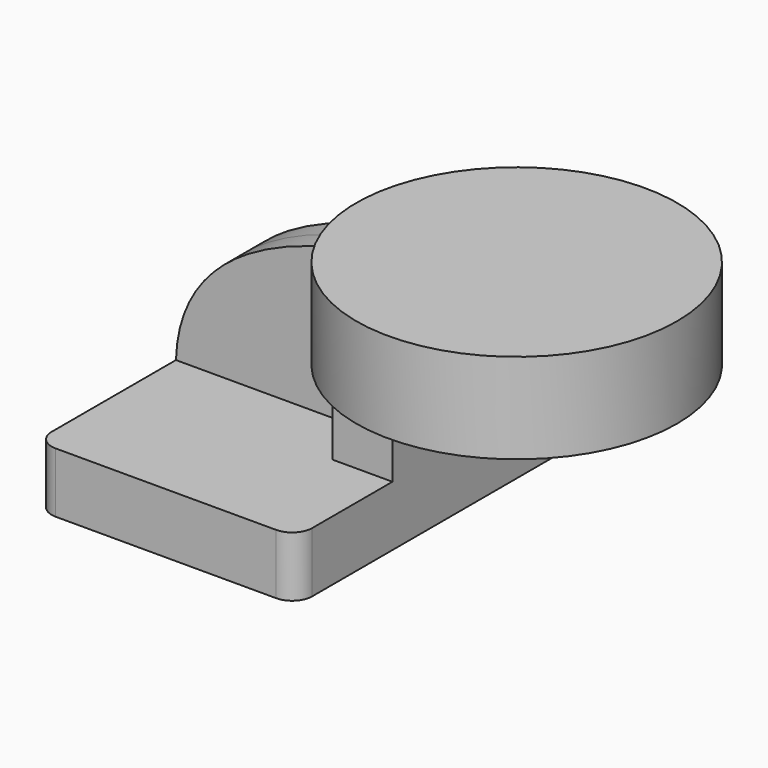
from build123d import *

# Parameters (mm, degrees)
F1_DEPTH = 63.5
F2_DEPTH = 25.4
F3_DEPTH = 7.9375
F5_R     = 6.35


with BuildPart() as f1:
    # F0 (on Front) → F1 (new body, symmetric)
    with BuildSketch(Plane.XZ):
        Polygon((22.225, 9.525), (-41.275, 9.525), (-41.275, -9.525), (41.275, -9.525), (41.275, 9.525), align=None)
    extrude(amount=F1_DEPTH, both=True)

    # F0 (on Front) → F2 (join, symmetric)
    with BuildSketch(Plane.XZ):
        with BuildLine():
            Line((22.225, 27.147116), (22.225, 9.525))
            Line((22.225, 9.525), (41.275, 9.525))
            Line((41.275, 9.525), (41.275, 27.147116))
            ThreePointArc((41.275, 27.147116), (45.187089, 37.582842), (54.995237, 42.8752))
            Line((54.995237, 42.8752), (60.325, 42.8752))
            Line((60.325, 42.8752), (60.325, 61.9252))
            Line((60.325, 61.9252), (53.949921, 61.9252))
            ThreePointArc((53.949921, 61.9252), (31.34769, 50.684245), (22.225, 27.147116))
        make_face()
    extrude(amount=F2_DEPTH, both=True)

    # F0 (on Front) → F3 (join, symmetric)
    with BuildSketch(Plane.XZ):
        with BuildLine():
            add(Edge.make_bspline(
                [(-41.275, 9.525), (-40.190469, 45.686379), (0, 61.9252), (53.949921, 61.9252)],
                knots=[0, 0, 0, 0, 108.690232, 108.690232, 108.690232, 108.690232], degree=3))
            Line((-41.275, 9.525), (22.225, 9.525))
            Line((22.225, 9.525), (22.225, 27.147116))
            ThreePointArc((22.225, 27.147116), (31.34769, 50.684245), (53.949921, 61.9252))
        make_face()
    extrude(amount=F3_DEPTH, both=True)

    # F0 (on Front) → F4 (revolve)
    with BuildSketch(Plane.XZ):
        Polygon((60.325, 66.675), (60.325, 61.9252), (78.97443, 61.9252), (78.97443, 42.8752), (60.325, 42.8752), (60.325, 38.1), (111.125, 38.1), (111.125, 66.675), align=None)
    revolve(axis=Axis((60.325, 0, 52.3875), (0, 0, 1)))

    # F5
    f5_edges = [f1.edges().sort_by_distance(p)[0] for p in [
        (-41.275, -63.5, 0),
        (41.275, -63.5, 0),
        (41.275, 63.5, 0),
        (-41.275, 63.5, 0),
    ]]
    fillet(f5_edges, radius=F5_R)


solid = f1.part
